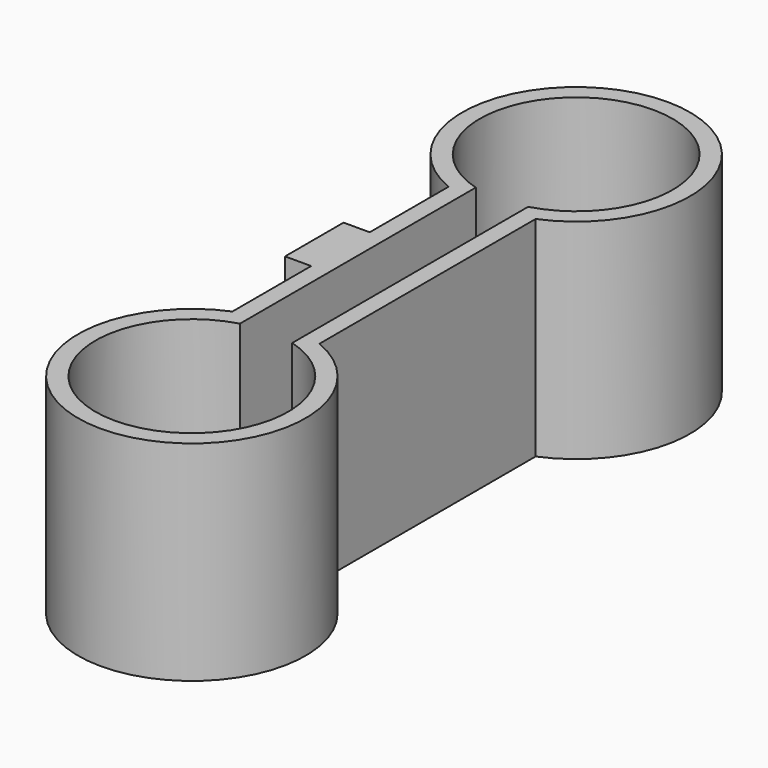
from build123d import *

# Parameters (mm, degrees)
F0_W     = 3
F0_H     = 8.4
F1_DEPTH = 24


with BuildPart() as f1:
    # F0 (on Top) → F1 (new body)
    with BuildSketch(Plane.XY):
        with BuildLine():
            Line((0, 11.3), (0, 0))
            ThreePointArc((0, 0), (5, -25.136427), (10, 0))
            Line((10, 0), (10, 31))
            ThreePointArc((10, 31), (5, 56.136427), (0, 31))
            Line((0, 31), (0, 19.7))
            Line((0, 19.7), (0, 11.3))
        make_face()
        with BuildLine():
            ThreePointArc((2, 32.419858), (5, 54.136427), (8, 32.419858))
            Line((8, 32.419858), (8, -1.419858))
            ThreePointArc((8, -1.419858), (5, -23.136427), (2, -1.419858))
            Line((2, -1.419858), (2, 32.419858))
        make_face(mode=Mode.SUBTRACT)
        with Locations((-1.5, 15.5)):
            Rectangle(F0_W, F0_H)
    extrude(amount=F1_DEPTH)


solid = f1.part
